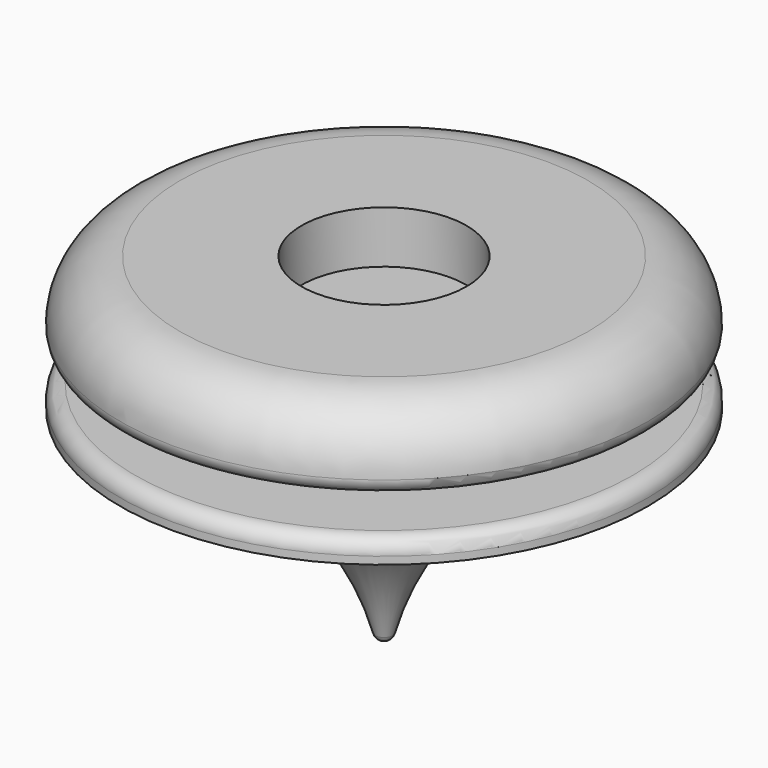
from build123d import *

# Parameters (mm, degrees)
F1_W     = 15
F1_H     = 5
F3_R     = 11.05
F4_DEPTH = 7


with BuildPart() as f2:
    # F1 (on Front) → F2 (revolve)
    with BuildSketch(Plane.XZ):
        with BuildLine():
            ThreePointArc((-35.355339, 0), (-13.765045, -7.357853), (-1.161129, -26.368905))
            ThreePointArc((-1.161129, -26.368905), (-0.733139, -27.014461), (0, -27.264311))
            Line((0, -27.264311), (0, 0))
            Line((0, 0), (0, 3))
            Line((0, 3), (-15, 3))
            Line((-15, 3), (-33.355339, 3))
            ThreePointArc((-33.355339, 3), (-34.769553, 2.414214), (-35.355339, 1))
            Line((-35.355339, 1), (-35.355339, 0))
        make_face()
        with Locations((-7.5, 5.5)):
            Rectangle(F1_W, F1_H)
        with BuildLine():
            Line((-15, 8), (0, 8))
            Line((0, 8), (0, 18))
            Line((0, 18), (-27.355339, 18))
            ThreePointArc((-27.355339, 18), (-33.012193, 15.656854), (-35.355339, 10))
            ThreePointArc((-35.355339, 10), (-34.769553, 8.585786), (-33.355339, 8))
            Line((-33.355339, 8), (-15, 8))
        make_face()
    revolve(axis=Axis((0, 0, 1.5), (0, 0, 1)))

    # F3 (on offset) → F4 (cut)
    with BuildSketch(Plane.XY.offset(18)):
        Circle(F3_R)
    extrude(amount=-F4_DEPTH, mode=Mode.SUBTRACT)


solid = f2.part
